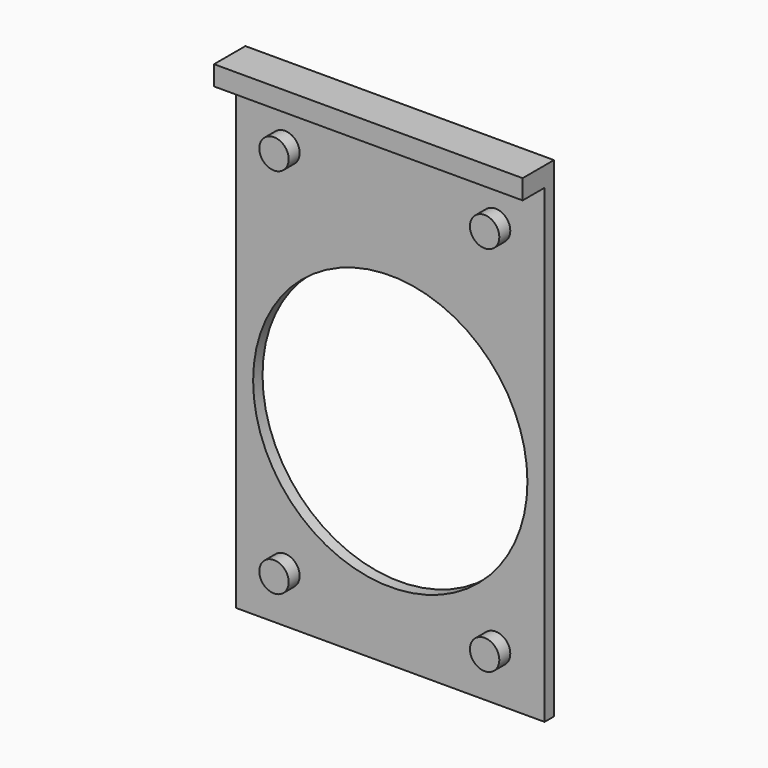
from build123d import *

# Parameters (mm, degrees)
F0_W     = 31.5
F0_H     = 48
F0_R     = 1.5
F0_R_2   = 14
F1_DEPTH = 1.2
F0_H_2   = 2
F2_DEPTH = 1.2
F3_DEPTH = 2.6
F4_DEPTH = 4


with BuildPart() as f1:
    # F0 (on Front) → F1 (new body)
    with BuildSketch(Plane.XZ):
        with Locations((0, -1)):
            Rectangle(F0_W, F0_H)
        with Locations((-10.75, -20)):
            Circle(F0_R, mode=Mode.SUBTRACT)
        with Locations((10.75, -20)):
            Circle(F0_R, mode=Mode.SUBTRACT)
        with Locations((0, -4)):
            Circle(F0_R_2, mode=Mode.SUBTRACT)
        with Locations((-10.75, 18)):
            Circle(F0_R, mode=Mode.SUBTRACT)
        with Locations((10.75, 18)):
            Circle(F0_R, mode=Mode.SUBTRACT)
    extrude(amount=F1_DEPTH)

    # F0 (on Front) → F2 (join)
    with BuildSketch(Plane.XZ):
        with Locations((0, 24)):
            Rectangle(F0_W, F0_H_2)
    extrude(amount=F2_DEPTH)

    # F0 (on Front) → F3 (join)
    with BuildSketch(Plane.XZ):
        with Locations((-10.75, 18)):
            Circle(F0_R)
        with Locations((10.75, 18)):
            Circle(F0_R)
        with Locations((10.75, -20)):
            Circle(F0_R)
        with Locations((-10.75, -20)):
            Circle(F0_R)
    extrude(amount=F3_DEPTH)

    # F0 (on Front) → F4 (join)
    with BuildSketch(Plane.XZ):
        with Locations((0, 24)):
            Rectangle(F0_W, F0_H_2)
    extrude(amount=F4_DEPTH)


solid = f1.part
